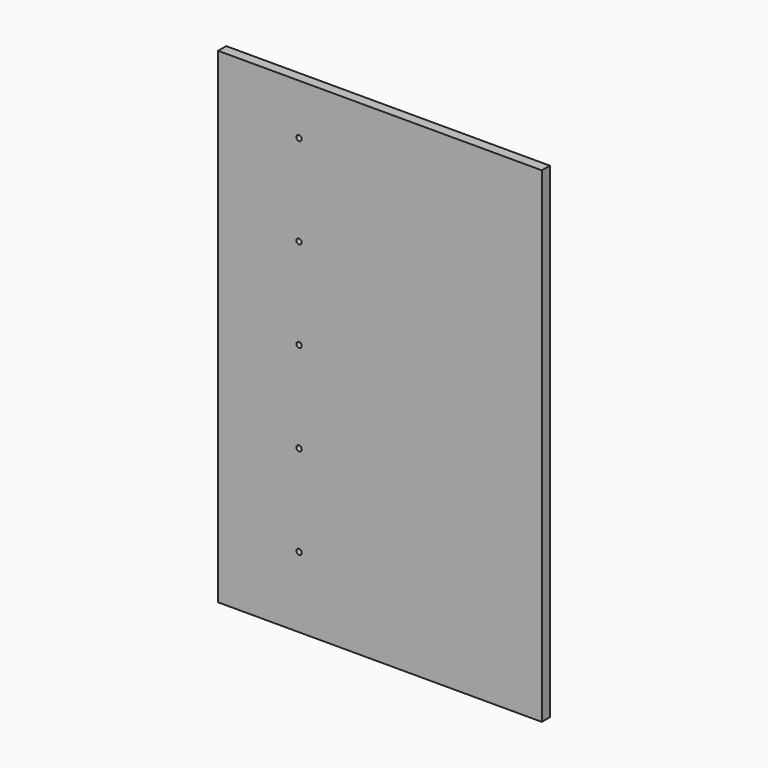
from build123d import *

# Parameters (mm, degrees)
F0_W     = 406.4
F0_H     = 609.6
F1_DEPTH = 12.7
F3_D     = 6.7564


with BuildPart() as f1:
    # F0 (on Front) → F1 (new body)
    with BuildSketch(Plane.XZ):
        Rectangle(F0_W, F0_H)
    extrude(amount=F1_DEPTH)

    # F3 (through all)
    with Locations(Plane.XZ.offset(12.7)):
        with Locations((-101.6, 241.3), (-101.6, 127), (-101.6, 12.7), (-101.6, -101.6), (-101.6, -215.9)):
            Hole(F3_D / 2)


solid = f1.part
